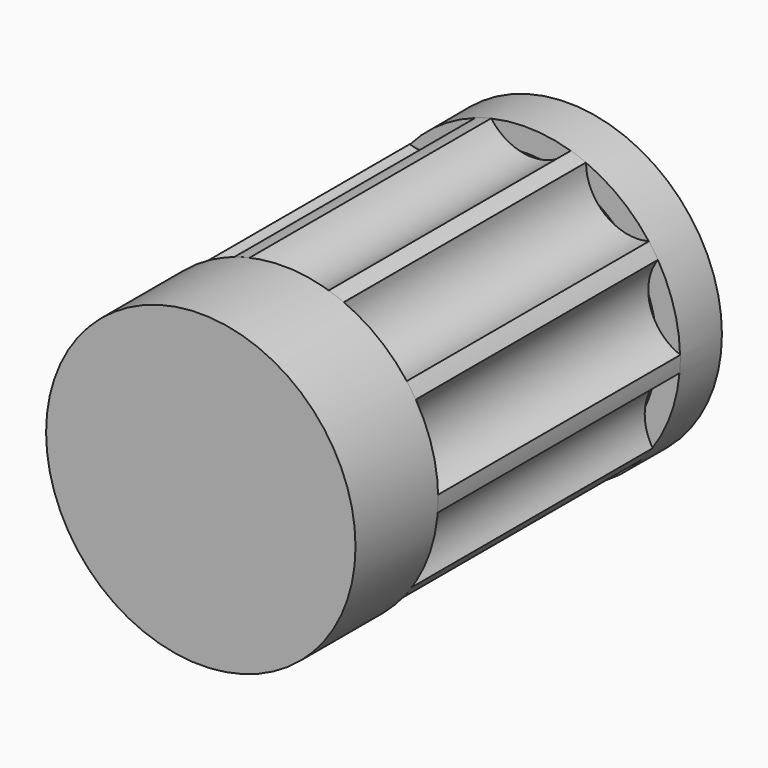
from build123d import *

# Parameters (mm, degrees)
F1_DEPTH  = 67.15461
F2_DEPTH  = 69.79008
F3_R      = 51.747749
F3_R_2    = 43.976375
F4_DEPTH  = 17.61725
F5_W      = 52.022107
F5_H      = 22.369506
F5_H_2    = 19.664356
F5_H_3    = 6.866917
F6_DEPTH  = 25.7345
F7_W      = 52.022105
F7_H      = 4.994122
F8_DEPTH  = 25.82881
F9_R      = 52.073065
F10_DEPTH = 34.79581


with BuildPart() as f1:
    # F0 (on Front) → F1 (new body)
    with BuildSketch(Plane.XZ):
        with BuildLine():
            ThreePointArc((15.025515, 49.610047), (1.396386, 43.41215), (-11.806262, 50.473112))
            ThreePointArc((-11.806262, 50.473112), (-14.424876, 49.788009), (-17.004157, 48.967147))
            ThreePointArc((-17.004157, 48.967147), (-24.387322, 35.941942), (-39.218818, 33.894058))
            ThreePointArc((-39.218818, 33.894058), (-40.934627, 31.800616), (-42.538819, 29.620462))
            ThreePointArc((-42.538819, 29.620462), (-40.855901, 14.743134), (-51.651118, 4.368627))
            ThreePointArc((-51.651118, 4.368627), (-51.808742, 1.666469), (-51.825098, -1.040233))
            ThreePointArc((-51.825098, -1.040233), (-41.718915, -12.08705), (-44.354446, -26.825472))
            ThreePointArc((-44.354446, -26.825472), (-42.893678, -29.104213), (-41.315951, -31.303595))
            ThreePointArc((-41.315951, -31.303595), (-26.646721, -34.300392), (-20.115884, -47.773152))
            ThreePointArc((-20.115884, -47.773152), (-17.594688, -48.758074), (-15.025515, -49.610047))
            ThreePointArc((-15.025515, -49.610047), (-1.396386, -43.41215), (11.806262, -50.473112))
            ThreePointArc((11.806262, -50.473112), (14.424876, -49.788009), (17.004157, -48.967147))
            ThreePointArc((17.004157, -48.967147), (24.387322, -35.941942), (39.218818, -33.894058))
            ThreePointArc((39.218818, -33.894058), (40.934627, -31.800616), (42.538819, -29.620462))
            ThreePointArc((42.538819, -29.620462), (40.855901, -14.743134), (51.651118, -4.368627))
            ThreePointArc((51.651118, -4.368627), (51.808742, -1.666469), (51.825098, 1.040233))
            ThreePointArc((51.825098, 1.040233), (41.718915, 12.08705), (44.354446, 26.825472))
            ThreePointArc((44.354446, 26.825472), (42.893678, 29.104213), (41.315951, 31.303595))
            ThreePointArc((41.315951, 31.303595), (26.646721, 34.300392), (20.115884, 47.773152))
            ThreePointArc((20.115884, 47.773152), (17.594688, 48.758074), (15.025515, 49.610047))
        make_face()
    extrude(amount=F1_DEPTH)

    # F1_face (on face) → F2 (join)
    with BuildSketch(Plane.XZ.offset(67.15461)):
        with BuildLine():
            ThreePointArc((41.315951, 31.303595), (26.646721, 34.300392), (20.115884, 47.773152))
            ThreePointArc((20.115884, 47.773152), (17.594688, 48.758074), (15.025515, 49.610047))
            ThreePointArc((15.025515, 49.610047), (1.396386, 43.41215), (-11.806262, 50.473112))
            ThreePointArc((-11.806262, 50.473112), (-14.424876, 49.788009), (-17.004157, 48.967147))
            ThreePointArc((-17.004157, 48.967147), (-24.387322, 35.941942), (-39.218818, 33.894058))
            ThreePointArc((-39.218818, 33.894058), (-40.934627, 31.800616), (-42.538819, 29.620462))
            ThreePointArc((-42.538819, 29.620462), (-40.855901, 14.743134), (-51.651118, 4.368627))
            ThreePointArc((-51.651118, 4.368627), (-51.808742, 1.666469), (-51.825098, -1.040233))
            ThreePointArc((-51.825098, -1.040233), (-41.718915, -12.08705), (-44.354446, -26.825472))
            ThreePointArc((-44.354446, -26.825472), (-42.893678, -29.104213), (-41.315951, -31.303595))
            ThreePointArc((-41.315951, -31.303595), (-26.646721, -34.300392), (-20.115884, -47.773152))
            ThreePointArc((-20.115884, -47.773152), (-17.594688, -48.758074), (-15.025515, -49.610047))
            ThreePointArc((-15.025515, -49.610047), (-1.396386, -43.41215), (11.806262, -50.473112))
            ThreePointArc((11.806262, -50.473112), (14.424876, -49.788009), (17.004157, -48.967147))
            ThreePointArc((17.004157, -48.967147), (24.387322, -35.941942), (39.218818, -33.894058))
            ThreePointArc((39.218818, -33.894058), (40.934627, -31.800616), (42.538819, -29.620462))
            ThreePointArc((42.538819, -29.620462), (40.855901, -14.743134), (51.651118, -4.368627))
            ThreePointArc((51.651118, -4.368627), (51.808742, -1.666469), (51.825098, 1.040233))
            ThreePointArc((51.825098, 1.040233), (41.718915, 12.08705), (44.354446, 26.825472))
            ThreePointArc((44.354446, 26.825472), (42.893678, 29.104213), (41.315951, 31.303595))
        make_face()
        with BuildLine():
            ThreePointArc((20.115884, 47.773152), (26.646721, 34.300392), (41.315951, 31.303595))
            ThreePointArc((41.315951, 31.303595), (42.893678, 29.104213), (44.354446, 26.825472))
            ThreePointArc((44.354446, 26.825472), (41.718915, 12.08705), (51.825098, 1.040233))
            ThreePointArc((51.825098, 1.040233), (51.808742, -1.666469), (51.651118, -4.368627))
            ThreePointArc((51.651118, -4.368627), (40.855901, -14.743134), (42.538819, -29.620462))
            ThreePointArc((42.538819, -29.620462), (40.934627, -31.800616), (39.218818, -33.894058))
            ThreePointArc((39.218818, -33.894058), (24.387322, -35.941942), (17.004157, -48.967147))
            ThreePointArc((17.004157, -48.967147), (14.424876, -49.788009), (11.806262, -50.473112))
            ThreePointArc((11.806262, -50.473112), (-1.396386, -43.41215), (-15.025515, -49.610047))
            ThreePointArc((-15.025515, -49.610047), (-17.594688, -48.758074), (-20.115884, -47.773152))
            ThreePointArc((-20.115884, -47.773152), (-26.646721, -34.300392), (-41.315951, -31.303595))
            ThreePointArc((-41.315951, -31.303595), (-42.893678, -29.104213), (-44.354446, -26.825472))
            ThreePointArc((-44.354446, -26.825472), (-41.718915, -12.08705), (-51.825098, -1.040233))
            ThreePointArc((-51.825098, -1.040233), (-51.808742, 1.666469), (-51.651118, 4.368627))
            ThreePointArc((-51.651118, 4.368627), (-40.855901, 14.743134), (-42.538819, 29.620462))
            ThreePointArc((-42.538819, 29.620462), (-40.934627, 31.800616), (-39.218818, 33.894058))
            ThreePointArc((-39.218818, 33.894058), (-24.387322, 35.941942), (-17.004157, 48.967147))
            ThreePointArc((-17.004157, 48.967147), (-14.424876, 49.788009), (-11.806262, 50.473112))
            ThreePointArc((-11.806262, 50.473112), (1.396386, 43.41215), (15.025515, 49.610047))
            ThreePointArc((15.025515, 49.610047), (17.594688, 48.758074), (20.115884, 47.773152))
        make_face()
    extrude(amount=F2_DEPTH)

    # F3 (on Front) → F4 (join)
    with BuildSketch(Plane.XZ):
        Circle(F3_R)
        Circle(F3_R_2, mode=Mode.SUBTRACT)
    extrude(amount=-F4_DEPTH)

    # F5 (on Front) → F6 (join)
    with BuildSketch(Plane.XZ):
        with Locations((-0.104043, -11.184753)):
            Rectangle(F5_W, F5_H)
        with Locations((-0.104043, 9.832178)):
            Rectangle(F5_W, F5_H_2)
        with Locations((-0.104043, 23.097814)):
            Rectangle(F5_W, F5_H_3)
    extrude(amount=-F6_DEPTH)

    # F7 (on Front) → F8 (join)
    with BuildSketch(Plane.XZ):
        with Locations((-0.312131, -24.866567)):
            Rectangle(F7_W, F7_H)
    extrude(amount=-F8_DEPTH)

    # F9 (on face) → F10 (join)
    with BuildSketch(Plane.XZ.offset(136.94469)):
        Circle(F9_R)
    extrude(amount=-F10_DEPTH)


solid = f1.part
